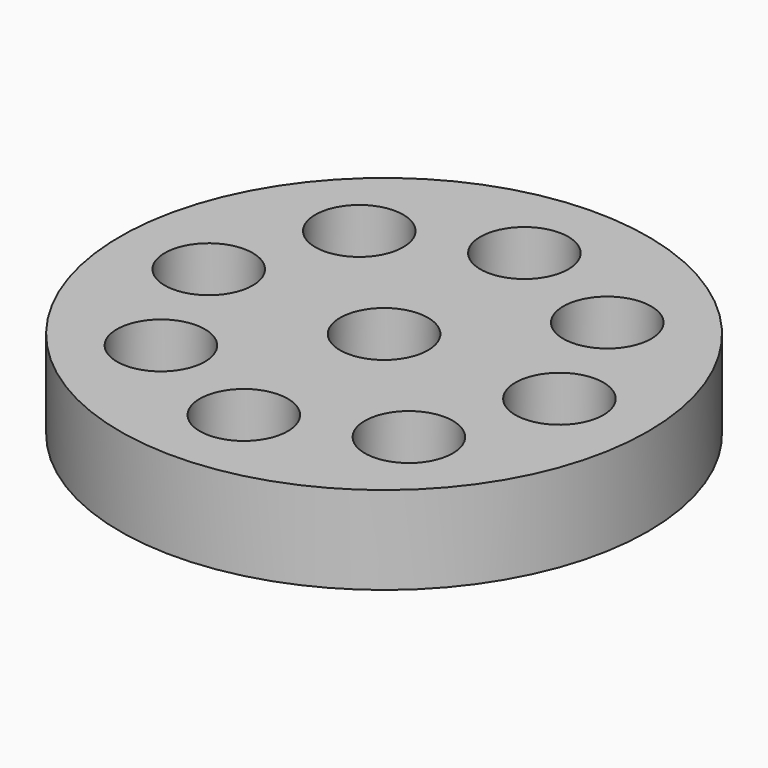
from build123d import *

# Parameters (mm, degrees)
F0_R     = 76.2
F0_R_2   = 12.7
F1_DEPTH = 25.4


with BuildPart() as f1:
    # F0 (on Top) → F1 (new body)
    with BuildSketch(Plane.XY):
        Circle(F0_R)
        with Locations((-35.792468, -35.792468)):
            Circle(F0_R_2, mode=Mode.SUBTRACT)
        with Locations((0, -50.618194)):
            Circle(F0_R_2, mode=Mode.SUBTRACT)
        with Locations((35.792468, -35.792468)):
            Circle(F0_R_2, mode=Mode.SUBTRACT)
        with Locations((-50.618194, 0)):
            Circle(F0_R_2, mode=Mode.SUBTRACT)
        with Locations((-35.792468, 35.792468)):
            Circle(F0_R_2, mode=Mode.SUBTRACT)
        Circle(F0_R_2, mode=Mode.SUBTRACT)
        with Locations((35.792468, 35.792468)):
            Circle(F0_R_2, mode=Mode.SUBTRACT)
        with Locations((50.618194, 0)):
            Circle(F0_R_2, mode=Mode.SUBTRACT)
        with Locations((0, 50.618194)):
            Circle(F0_R_2, mode=Mode.SUBTRACT)
    extrude(amount=F1_DEPTH)


solid = f1.part
